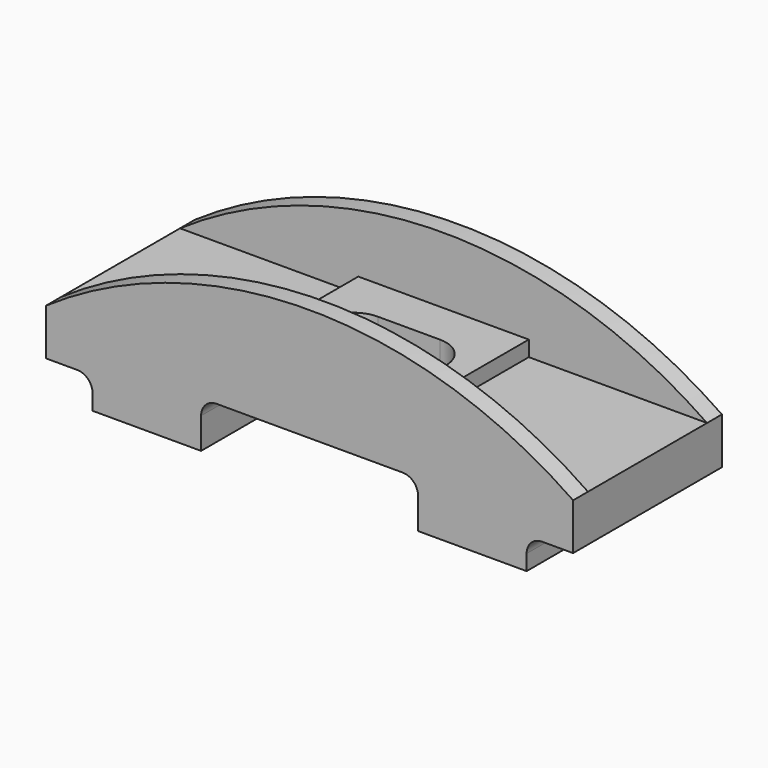
from build123d import *

# Parameters (mm, degrees)
F0_W      = 1700
F0_H      = 600
F1_DEPTH  = 250
F2_W      = 550
F2_H      = 480
F3_DEPTH  = 50
F5_DEPTH  = 300.001
F7_DEPTH  = 600.001
F9_DEPTH  = 600.001
F12_DEPTH = 60
F13_DEPTH = 60


with BuildPart() as f1:
    # F0 (on Top) → F1 (new body)
    with BuildSketch(Plane.XY):
        Rectangle(F0_W, F0_H)
    extrude(amount=F1_DEPTH)

    # F2 (on face) → F3 (join)
    with BuildSketch(Plane.XY.offset(250)):
        Rectangle(F2_W, F2_H)
    extrude(amount=F3_DEPTH)

    # F4 (on face) → F5 (cut, through all)
    with BuildSketch(Plane.XY.offset(300)):
        with BuildLine():
            ThreePointArc((-100, 100), (-200, 0), (-100, -100))
            Line((-100, -100), (-100, 100))
        make_face()
        with BuildLine():
            Line((-100, 100), (-100, -100))
            ThreePointArc((-100, -100), (-29.2893218813, -70.7106781187), (0, 0))
            ThreePointArc((0, 0), (-29.2893218813, 70.7106781187), (-100, 100))
        make_face()
        with BuildLine():
            ThreePointArc((0, 0), (29.2893218813, -70.7106781187), (100, -100))
            Line((100, -100), (100, 100))
            ThreePointArc((100, 100), (29.2893218813, 70.7106781187), (0, 0))
        make_face()
        with BuildLine():
            Line((100, 100), (100, -100))
            ThreePointArc((100, -100), (170.7106781187, -70.7106781187), (200, 0))
            ThreePointArc((200, 0), (170.7106781187, 70.7106781187), (100, 100))
        make_face()
        with BuildLine():
            ThreePointArc((0, 0), (29.2893218813, 70.7106781187), (100, 100))
            Line((100, 100), (-100, 100))
            ThreePointArc((-100, 100), (-29.2893218813, 70.7106781187), (0, 0))
        make_face()
        with BuildLine():
            Line((-100, -100), (100, -100))
            ThreePointArc((100, -100), (29.2893218813, -70.7106781187), (0, 0))
            ThreePointArc((0, 0), (-29.2893218813, -70.7106781187), (-100, -100))
        make_face()
    extrude(amount=-F5_DEPTH, mode=Mode.SUBTRACT)

    # F6 (on face) → F7 (cut, through all)
    with BuildSketch(Plane.XZ.offset(300)):
        with BuildLine():
            Line((-350, 0), (0, 0))
            Line((0, 0), (0, 150))
            Line((0, 150), (-300, 150))
            ThreePointArc((-300, 150), (-335.3553390593, 135.3553390593), (-350, 100))
            Line((-350, 100), (-350, 0))
        make_face()
        with BuildLine():
            Line((0, 150), (0, 0))
            Line((0, 0), (350, 0))
            Line((350, 0), (350, 100))
            ThreePointArc((350, 100), (335.3553390593, 135.3553390593), (300, 150))
            Line((300, 150), (0, 150))
        make_face()
    extrude(amount=-F7_DEPTH, mode=Mode.SUBTRACT)

    # F8 (on face) → F9 (cut, through all)
    with BuildSketch(Plane.XZ.offset(300)):
        with BuildLine():
            Line((850, 0), (850, 100))
            Line((850, 100), (750, 100))
            ThreePointArc((750, 100), (714.6446609407, 85.3553390593), (700, 50))
            Line((700, 50), (700, 0))
            Line((700, 0), (850, 0))
        make_face()
        with BuildLine():
            Line((-850, 100), (-850, 0))
            Line((-850, 0), (-700, 0))
            Line((-700, 0), (-700, 50))
            ThreePointArc((-700, 50), (-714.6446609407, 85.3553390593), (-750, 100))
            Line((-750, 100), (-850, 100))
        make_face()
    extrude(amount=-F9_DEPTH, mode=Mode.SUBTRACT)

    # F11 (on face) → F12 (join)
    with BuildSketch(Plane(origin=(0, 300, 0), x_dir=(-1, 0, 0), z_dir=(0, 1, 0))):
        with BuildLine():
            Line((-850, 250), (850, 250))
            ThreePointArc((850, 250), (0, 514.0792905692), (-850, 250))
        make_face()
    extrude(amount=-F12_DEPTH)

    # F10 (on face) → F13 (join)
    with BuildSketch(Plane.XZ.offset(300)):
        with BuildLine():
            Line((-850, 250), (850, 250))
            ThreePointArc((850, 250), (0, 514.0792905692), (-850, 250))
        make_face()
    extrude(amount=-F13_DEPTH)


solid = f1.part
